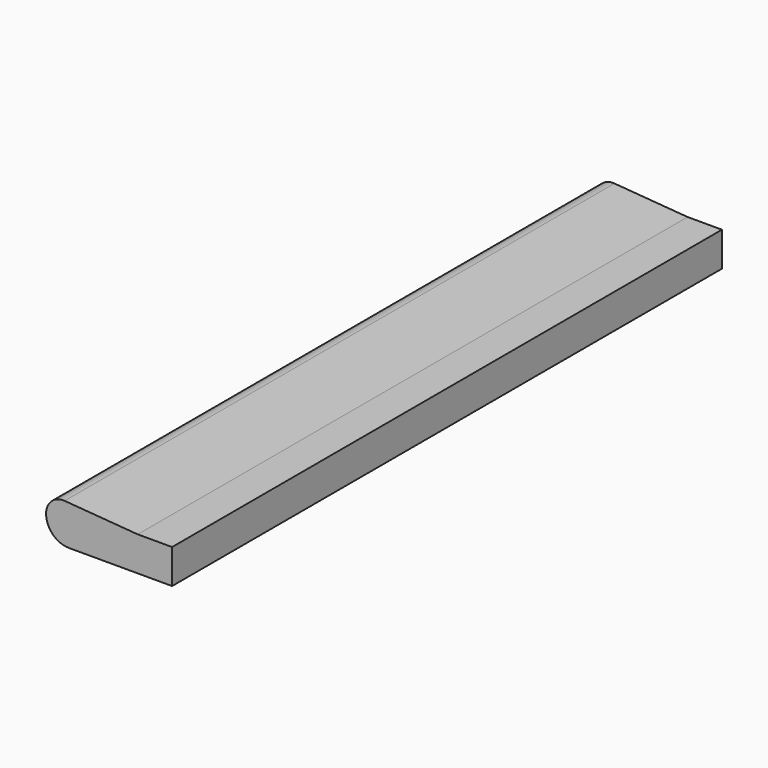
from build123d import *

# Parameters (mm, degrees)
F1_DEPTH = 60
F2_W     = 3
F2_H     = 3
F3_DEPTH = 60
F4_DEPTH = 42
F5_DEPTH = 35
F6_DEPTH = 7


with BuildPart() as f1:
    # F0 (on Front) → F1 (new body)
    with BuildSketch(Plane.XZ):
        with BuildLine():
            Line((-6, 0), (0, 0))
            Line((0, 0), (0, 3))
            Line((0, 3), (-6.3828637444, 3.5))
            ThreePointArc((-6.3828637444, 3.5), (-7.5200895217, 3.1043228005), (-8, 2))
            ThreePointArc((-8, 2), (-7.4142135624, 0.5857864376), (-6, 0))
        make_face()
    extrude(amount=F1_DEPTH)

    # F2 (on face) → F3 (join)
    with BuildSketch(Plane.XZ.offset(60)):
        with Locations((1.5, 1.5)):
            Rectangle(F2_W, F2_H)
    extrude(amount=-F3_DEPTH)

    # F4 (cut): a face of the model
    f4_faces = [f1.faces().sort_by_distance(p)[0] for p in [
        (-2.4940313384, -60, 1.6228930979),
    ]]
    extrude(f4_faces, amount=-F4_DEPTH, mode=Mode.SUBTRACT)

    # F5 (add): a face of the model
    f5_faces = [f1.faces().sort_by_distance(p)[0] for p in [
        (-2.4940313384, -18, 1.6228930979),
    ]]
    extrude(f5_faces, amount=F5_DEPTH)

    # F6 (add): a face of the model
    f6_faces = [f1.faces().sort_by_distance(p)[0] for p in [
        (-2.4940313384, -53, 1.6228930979),
    ]]
    extrude(f6_faces, amount=F6_DEPTH)


solid = f1.part
